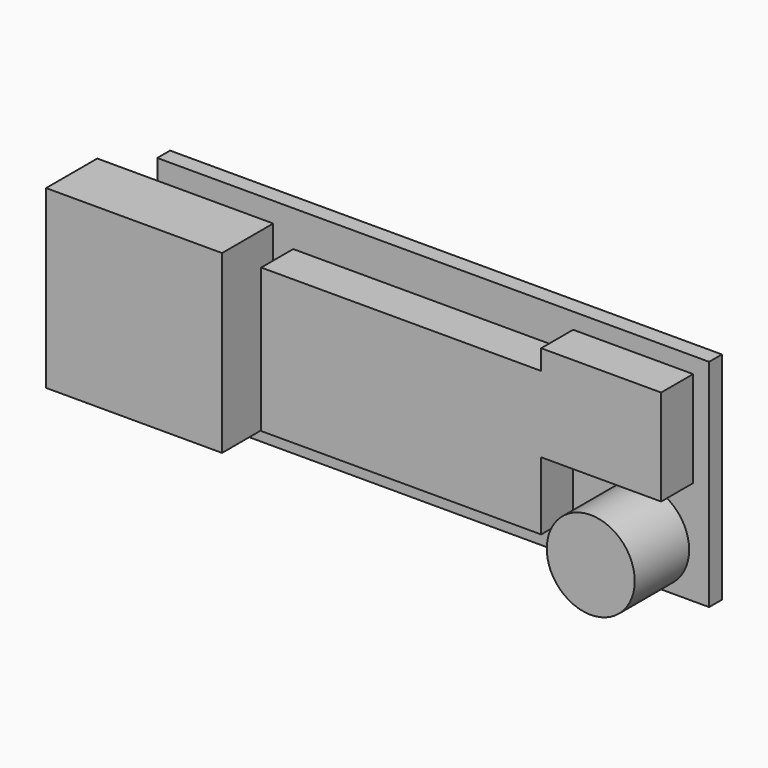
from build123d import *

# Parameters (mm, degrees)
F0_W     = 69
F0_H     = 27
F1_DEPTH = 2
F2_W     = 22
F2_H     = 22
F3_DEPTH = 8
F4_W     = 35
F4_H     = 18
F5_DEPTH = 5
F6_W     = 15
F6_H     = 12
F7_DEPTH = 5
F8_R     = 5.5
F9_DEPTH = 8.5


with BuildPart() as f1:
    # F0 (on Front) → F1 (new body)
    with BuildSketch(Plane.XZ):
        Rectangle(F0_W, F0_H)
    extrude(amount=F1_DEPTH)

    # F2 (on face) → F3 (join)
    with BuildSketch(Plane.XZ.offset(2)):
        with Locations((-31, 0)):
            Rectangle(F2_W, F2_H)
    extrude(amount=F3_DEPTH)

    # F4 (on face) → F5 (join)
    with BuildSketch(Plane.XZ.offset(2)):
        Rectangle(F4_W, F4_H)
    extrude(amount=F5_DEPTH)

    # F6 (on face) → F7 (join)
    with BuildSketch(Plane.XZ.offset(2)):
        with Locations((25, 5.5)):
            Rectangle(F6_W, F6_H)
    extrude(amount=F7_DEPTH)

    # F8 (on face) → F9 (join)
    with BuildSketch(Plane.XZ.offset(2)):
        with Locations((26.5, -8)):
            Circle(F8_R)
    extrude(amount=F9_DEPTH)


solid = f1.part
